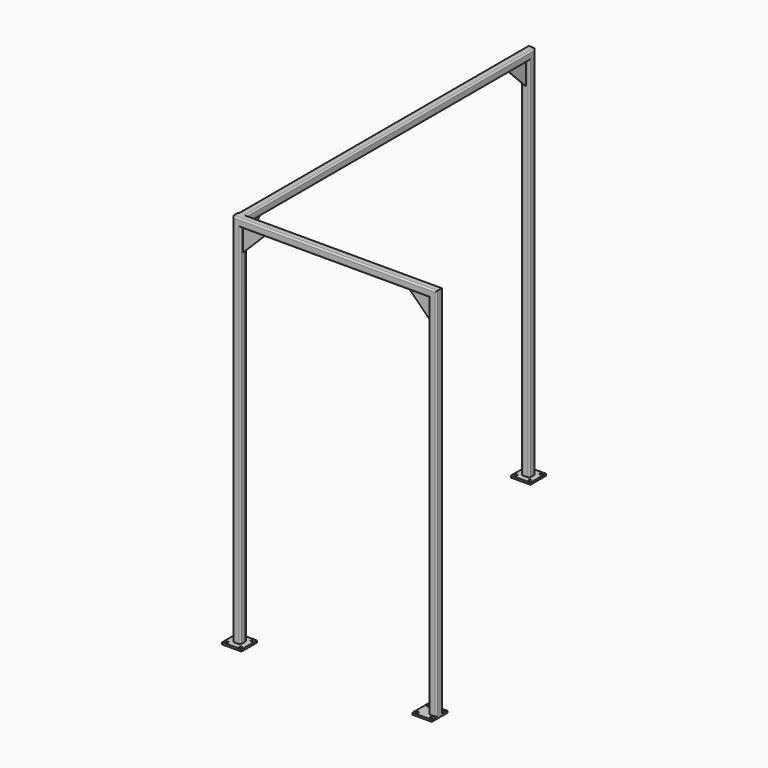
from build123d import *

# Parameters (mm, degrees)
F5_W      = 127
F5_H      = 127
F5_R      = 7.112
F6_DEPTH  = 12.7
F8_DEPTH  = 3.175
F10_DEPTH = 3.175


with BuildPart() as f3:
    # F3: sweep along a path in F2
    with BuildLine(Plane.XZ) as f3_path:
        Line((0, 0), (0, 2438.4))
        Line((0, 2438.4), (1282.7, 2438.4))
        Line((1282.7, 2438.4), (1282.7, 0))
    # F1 (on Top) → F3 (sweep)
    with BuildSketch(Plane.XY):
        with BuildLine():
            Line((0, 25.4), (-15.875, 25.4))
            ThreePointArc((-15.875, 25.4), (-22.6101920908, 22.6101920908), (-25.4, 15.875))
            Line((-25.4, 15.875), (-25.4, -15.875))
            ThreePointArc((-25.4, -15.875), (-22.6101920908, -22.6101920908), (-15.875, -25.4))
            Line((-15.875, -25.4), (15.875, -25.4))
            ThreePointArc((15.875, -25.4), (22.6101920908, -22.6101920908), (25.4, -15.875))
            Line((25.4, -15.875), (25.4, 15.875))
            ThreePointArc((25.4, 15.875), (22.6101920908, 22.6101920908), (15.875, 25.4))
            Line((15.875, 25.4), (0, 25.4))
        make_face()
    sweep(path=f3_path.line, transition=Transition.RIGHT)

    # F4: sweep along a path in F0
    with BuildLine(Plane.YZ) as f4_path:
        Line((2362.2, 0), (2362.2, 2438.4))
        Line((2362.2, 2438.4), (0, 2438.4))
    # F1 (on Top) → F4 (sweep)
    with BuildSketch(Plane.XY):
        with BuildLine():
            Line((-15.875, 2336.8), (0, 2336.8))
            Line((0, 2336.8), (15.875, 2336.8))
            ThreePointArc((15.875, 2336.8), (22.6101920908, 2339.5898079092), (25.4, 2346.325))
            Line((25.4, 2346.325), (25.4, 2378.075))
            ThreePointArc((25.4, 2378.075), (22.6101920908, 2384.8101920908), (15.875, 2387.6))
            Line((15.875, 2387.6), (-15.875, 2387.6))
            ThreePointArc((-15.875, 2387.6), (-22.6101920908, 2384.8101920908), (-25.4, 2378.075))
            Line((-25.4, 2378.075), (-25.4, 2346.325))
            ThreePointArc((-25.4, 2346.325), (-22.6101920908, 2339.5898079092), (-15.875, 2336.8))
        make_face()
    sweep(path=f4_path.line, transition=Transition.RIGHT)

    # F5 (on Top) → F6 (join)
    with BuildSketch(Plane.XY):
        Rectangle(F5_W, F5_H)
        with Locations((-44.45, -44.45)):
            Circle(F5_R, mode=Mode.SUBTRACT)
        with Locations((-44.45, 44.45)):
            Circle(F5_R, mode=Mode.SUBTRACT)
        with Locations((44.45, -44.45)):
            Circle(F5_R, mode=Mode.SUBTRACT)
        with Locations((44.45, 44.45)):
            Circle(F5_R, mode=Mode.SUBTRACT)
        with Locations((0, 2362.2)):
            Rectangle(F5_W, F5_H)
        with Locations((-44.45, 2317.75)):
            Circle(F5_R, mode=Mode.SUBTRACT)
        with Locations((-44.45, 2406.65)):
            Circle(F5_R, mode=Mode.SUBTRACT)
        with Locations((44.45, 2317.75)):
            Circle(F5_R, mode=Mode.SUBTRACT)
        with Locations((44.45, 2406.65)):
            Circle(F5_R, mode=Mode.SUBTRACT)
        with Locations((1244.6, 0)):
            Rectangle(F5_W, F5_H)
        with Locations((1200.15, -44.45)):
            Circle(F5_R, mode=Mode.SUBTRACT)
        with Locations((1200.15, 44.45)):
            Circle(F5_R, mode=Mode.SUBTRACT)
        with Locations((1289.05, -44.45)):
            Circle(F5_R, mode=Mode.SUBTRACT)
        with Locations((1289.05, 44.45)):
            Circle(F5_R, mode=Mode.SUBTRACT)
    extrude(amount=F6_DEPTH)

    # F7 (on Right) → F8 (join, symmetric)
    with BuildSketch(Plane.YZ):
        Polygon((2336.8, 2260.6), (2336.8, 2413), (2184.4, 2413), align=None)
        Polygon((177.8, 2413), (25.4, 2413), (25.4, 2260.6), align=None)
    extrude(amount=F8_DEPTH, both=True)

    # F9 (on Front) → F10 (join, symmetric)
    with BuildSketch(Plane.XZ):
        Polygon((177.8, 2413), (25.4, 2413), (25.4, 2260.6), align=None)
        Polygon((1257.3, 2260.6), (1257.3, 2413), (1104.9, 2413), align=None)
    extrude(amount=F10_DEPTH, both=True)


solid = f3.part
